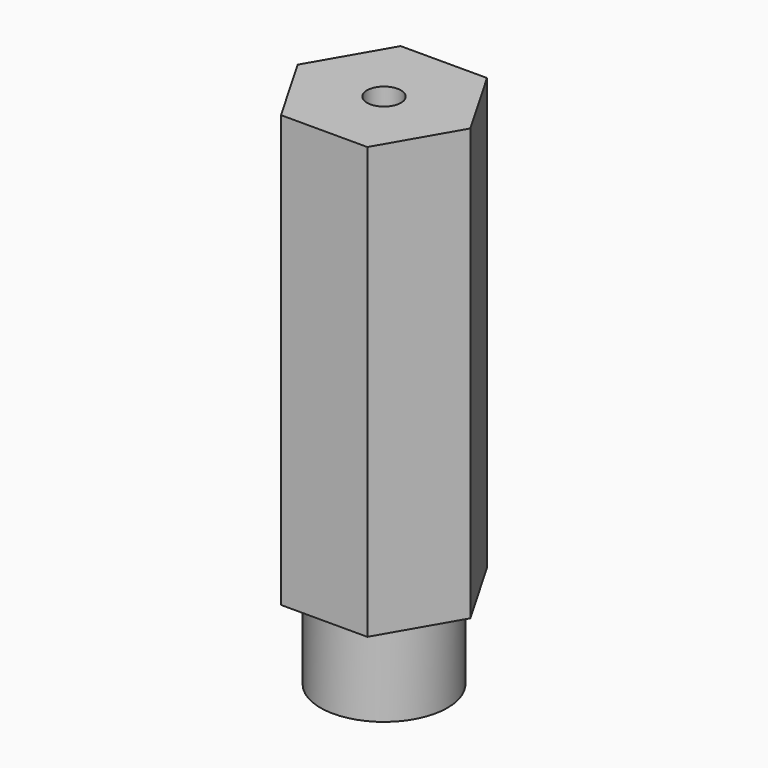
from build123d import *

# Parameters (mm, degrees)
F0_R        = 3.685
F0_R_2      = 0.985
F1_DEPTH    = 5
F1_FACE_R   = 3.685
F1_FACE_R_2 = 0.985
F2_DEPTH    = 25


with BuildPart() as f1:
    # F0 (on Top) → F1 (new body)
    with BuildSketch(Plane.XY):
        Circle(F0_R)
        Circle(F0_R_2, mode=Mode.SUBTRACT)
    extrude(amount=-F1_DEPTH)

    # F0 (on Top) + F1_face (on face) → F2 (join)
    with BuildSketch(Plane.XY):
        Polygon((2.502813, -4.335), (5.005627, 0), (2.502813, 4.335), (-2.502813, 4.335), (-5.005627, 0), (-2.502813, -4.335), align=None)
        Circle(F0_R, mode=Mode.SUBTRACT)
    with BuildSketch(Plane.XY):
        Circle(F1_FACE_R)
        Circle(F1_FACE_R_2, mode=Mode.SUBTRACT)
    extrude(amount=F2_DEPTH)


solid = f1.part
